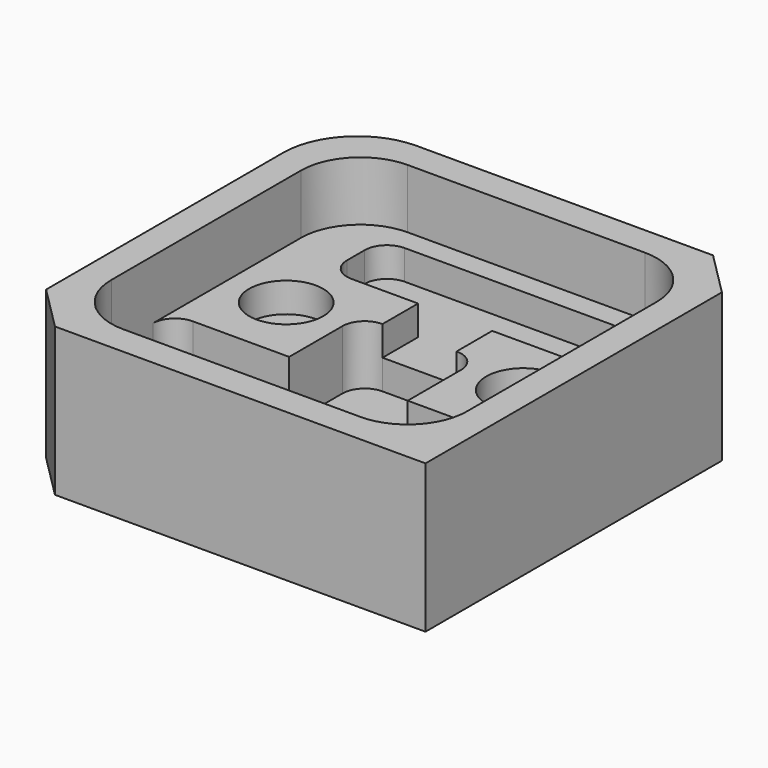
from build123d import *

# Parameters (mm, degrees)
F0_W      = 28
F0_H      = 28
F1_DEPTH  = 10
F3_DEPTH  = 4
F5_DEPTH  = 4
F6_SIZE   = 3
F7_R      = 1.5
F8_R      = 5
F9_R      = 2.5
F10_DEPTH = 2


with BuildPart() as f1:
    # F0 (on Top) → F1 (new body)
    with BuildSketch(Plane.XY):
        with Locations((14, 14)):
            Rectangle(F0_W, F0_H)
    extrude(amount=F1_DEPTH)

    # F2 (on face) → F3 (cut)
    with BuildSketch(Plane.XY.offset(10)):
        with BuildLine():
            ThreePointArc((26, 22), (24.8284271247, 24.8284271247), (22, 26))
            Line((22, 26), (6, 26))
            ThreePointArc((6, 26), (3.1715728753, 24.8284271247), (2, 22))
            Line((2, 22), (2, 6))
            ThreePointArc((2, 6), (3.1715728753, 3.1715728753), (6, 2))
            Line((6, 2), (22, 2))
            ThreePointArc((22, 2), (24.8284271247, 3.1715728753), (26, 6))
            Line((26, 6), (26, 22))
        make_face()
    extrude(amount=-F3_DEPTH, mode=Mode.SUBTRACT)

    # F4 (on face) → F5 (cut)
    with BuildSketch(Plane.XY.offset(6)):
        with BuildLine():
            Line((10, 11), (2, 11))
            Line((2, 11), (2, 6))
            ThreePointArc((2, 6), (3.1715728753, 3.1715728753), (6, 2))
            Line((6, 2), (22, 2))
            ThreePointArc((22, 2), (24.8284271247, 3.1715728753), (26, 6))
            Line((26, 6), (26, 11))
            Line((26, 11), (18, 11))
            Line((18, 11), (18, 17))
            Line((18, 17), (10, 17))
            Line((10, 17), (10, 11))
        make_face()
    extrude(amount=-F5_DEPTH, mode=Mode.SUBTRACT)

    # F6
    f6_edges = [f1.edges().sort_by_distance(p)[0] for p in [
        (0, 0, 5),
        (28, 28, 5),
    ]]
    chamfer(f6_edges, length=F6_SIZE)

    # F7
    f7_edges = [f1.edges().sort_by_distance(p)[0] for p in [
        (2, 11, 4),
        (10, 17, 4),
        (18, 17, 4),
        (26, 11, 4),
    ]]
    fillet(f7_edges, radius=F7_R)

    # F8
    f8_edges = [f1.edges().sort_by_distance(p)[0] for p in [
        (0, 28, 5),
    ]]
    fillet(f8_edges, radius=F8_R)

    # F9 (on face) → F10 (cut)
    with BuildSketch(Plane.XY.offset(6)):
        with BuildLine():
            Line((11.5, 20), (11.5, 17))
            Line((11.5, 17), (16.5, 17))
            Line((16.5, 17), (16.5, 20))
            Line((16.5, 20), (21, 20))
            ThreePointArc((21, 20), (22.0606601718, 20.4393398282), (22.5, 21.5))
            Line((22.5, 21.5), (22.5, 23))
            ThreePointArc((22.5, 23), (22.0606601718, 24.0606601718), (21, 24.5))
            Line((21, 24.5), (7, 24.5))
            ThreePointArc((7, 24.5), (5.9393398282, 24.0606601718), (5.5, 23))
            Line((5.5, 23), (5.5, 21.5))
            ThreePointArc((5.5, 21.5), (5.9393398282, 20.4393398282), (7, 20))
            Line((7, 20), (11.5, 20))
        make_face()
        with Locations((22, 15.75)):
            Circle(F9_R)
        with Locations((6, 15.75)):
            Circle(F9_R)
    extrude(amount=-F10_DEPTH, mode=Mode.SUBTRACT)


solid = f1.part
